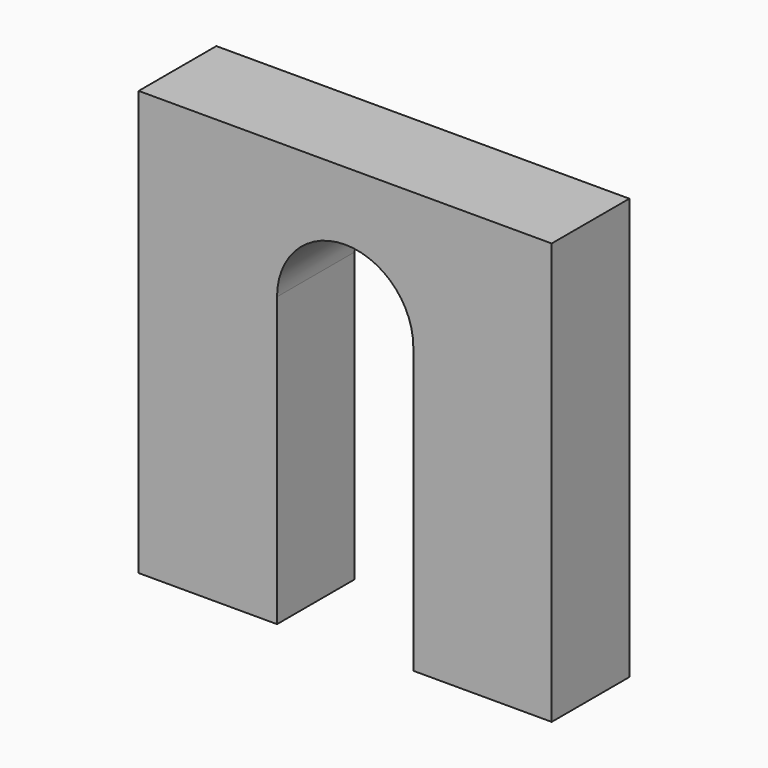
from build123d import *

# Parameters (mm, degrees)
F1_DEPTH = 11.938


with BuildPart() as f1:
    # F0 (on Front) → F1 (new body)
    with BuildSketch(Plane.XZ):
        with BuildLine():
            Line((26.234884, 25.576251), (0.834884, 25.576251))
            Line((0.834884, 25.576251), (0.834884, 17.194251))
            ThreePointArc((0.834884, 17.194251), (6.761853, 14.73922), (9.216884, 8.812251))
            Line((9.216884, 8.812251), (9.216884, -26.232167))
            Line((9.216884, -26.232167), (26.234884, -26.232167))
            Line((26.234884, -26.232167), (26.234884, 25.576251))
        make_face()
        with BuildLine():
            Line((0.834884, 25.576251), (-24.565116, 25.576251))
            Line((-24.565116, 25.576251), (-24.565116, -26.635419))
            Line((-24.565116, -26.635419), (-7.547116, -26.635419))
            Line((-7.547116, -26.635419), (-7.547116, 8.812251))
            ThreePointArc((-7.547116, 8.812251), (-5.092085, 14.73922), (0.834884, 17.194251))
            Line((0.834884, 17.194251), (0.834884, 25.576251))
        make_face()
    extrude(amount=F1_DEPTH)


solid = f1.part
